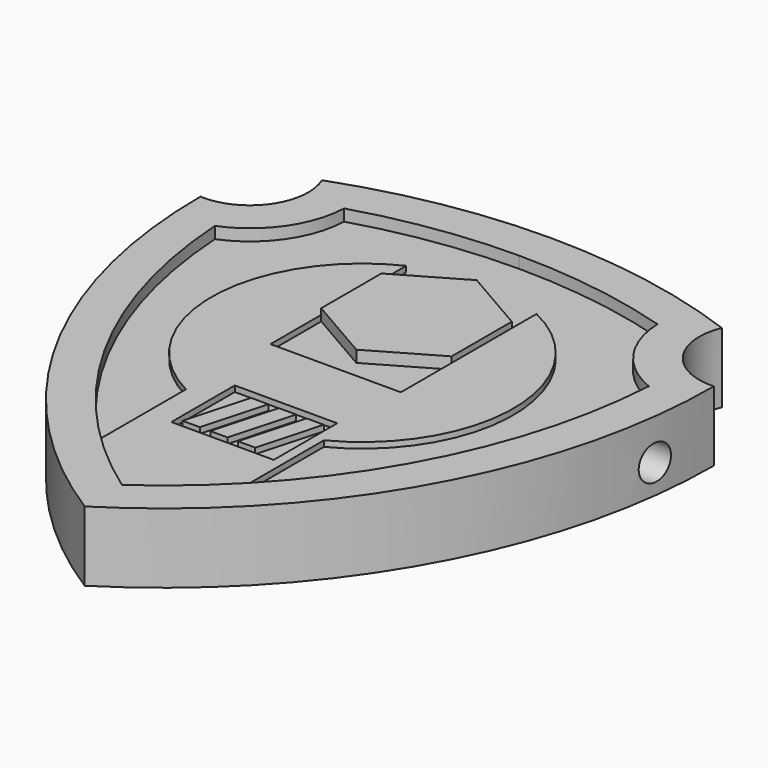
from build123d import *

# Parameters (mm, degrees)
F3_DEPTH       = 6
F4_DEPTH       = 5
F7_W           = 8.8009524625
F7_H           = 6.8124858662
F8_DEPTH       = 5.5
F9_DEPTH       = 6
F10_R          = 1.5
F11_DEPTH      = 22.0605344206
F11_DEPTH_BACK = 22.0605344206


with BuildPart() as f3:
    # F2 (on Top) → F3 (new body)
    with BuildSketch(Plane.XY):
        with BuildLine():
            Line((0, 21.6666666667), (0, 25))
            ThreePointArc((0, 25), (-8.7261968456, 24.2326465733), (-17.1845506091, 21.9541395445))
            ThreePointArc((-17.1845506091, 21.9541395445), (-17.6945480382, 17.1258595599), (-22.0595344206, 15))
            ThreePointArc((-22.0595344206, 15), (-16.1790775021, -7.8397846906), (0, -25))
            Line((0, -25), (0, -20.9973518952))
            ThreePointArc((0, -20.9973518952), (-13.1176654632, -6.4864713134), (-18.6418781092, 12.2784394807))
            ThreePointArc((-18.6418781092, 12.2784394807), (-14.9610674668, 15.2181844096), (-13.460154741, 19.6833527404))
            ThreePointArc((-13.460154741, 19.6833527404), (-6.8027439277, 21.1681757581), (0, 21.6666666667))
        make_face()
    extrude(amount=F3_DEPTH)

    # F2 (on Top) → F4 (join)
    with BuildSketch(Plane.XY):
        with BuildLine():
            Line((0, -20.9973518952), (0, 21.6666666667))
            ThreePointArc((0, 21.6666666667), (-6.8027439277, 21.1681757581), (-13.460154741, 19.6833527404))
            ThreePointArc((-13.460154741, 19.6833527404), (-14.9610674668, 15.2181844096), (-18.6418781092, 12.2784394807))
            ThreePointArc((-18.6418781092, 12.2784394807), (-13.1176654632, -6.4864713134), (0, -20.9973518952))
        make_face()
    extrude(amount=F4_DEPTH)

    # F5: F3 across plane


with BuildPart() as f3_1:
    add(f3.part)
    add(f3.part.mirror(Plane.YZ))

    # F7 (on Top) → F8 (join)
    with BuildSketch(Plane.XY):
        with BuildLine():
            Line((5.5992295966, 16.5245700628), (5.5992295966, 13.8685129642))
            Line((5.5992295966, 13.8685129642), (5.5992295966, 7.4030795346))
            Line((5.5992295966, 7.4030795346), (5.5992295966, 1.9538915054))
            Line((5.5992295966, 1.9538915054), (-5.5992295966, 1.9538915054))
            Line((-5.5992295966, 1.9538915054), (-5.5992295966, 7.4030795346))
            Line((-5.5992295966, 7.4030795346), (-5.5992295966, 13.8685129642))
            Line((-5.5992295966, 13.8685129642), (-5.5992295966, 16.5245700628))
            ThreePointArc((-5.5992295966, 16.5245700628), (-12.9710057836, 5.0063042214), (-5.9278514236, -6.7157906769))
            Line((-5.9278514236, -6.7157906769), (-5.9278514236, -19.3214993029))
            Line((-5.9278514236, -19.3214993029), (0, -23.4193839133))
            Line((0, -23.4193839133), (5.9278514236, -20.1235420135))
            Line((5.9278514236, -20.1235420135), (5.9278514236, -6.7157906769))
            ThreePointArc((5.9278514236, -6.7157906769), (12.9710057836, 5.0063042214), (5.5992295966, 16.5245700628))
        make_face()
        with Locations((0.6785687292, -7.6357298531)):
            Rectangle(F7_W, F7_H, mode=Mode.SUBTRACT)
        Polygon((-1.7386174295, -4.9604633823), (-3.247810062, -10.4308445007), (-1.7631669762, -10.4308445007), (-0.2539743437, -4.9604633823), align=None)
        Polygon((0.6177854048, -10.4308445007), (2.1269780373, -4.9604633823), (0.6423349514, -4.9604633823), (-0.8668576811, -10.4308445007), align=None)
        Polygon((2.9987377857, -10.4308445007), (4.5079304183, -4.9604633823), (3.0232873324, -4.9604633823), (1.5140946999, -10.4308445007), align=None)
    extrude(amount=F8_DEPTH)

    # F7 (on Top) → F9 (join)
    with BuildSketch(Plane.XY):
        Polygon((5.5992295966, 7.4030795346), (5.5992295966, 13.8685129642), (0, 17.1012296791), (-5.5992295966, 13.8685129642), (-5.5992295966, 7.4030795346), (0, 4.1703628198), align=None)
    extrude(amount=F9_DEPTH)

    # F10 (on Right) → F11 (cut, two sides)
    with BuildSketch(Plane.YZ) as f11_sk:
        with Locations((9.1423522681, 2.5)):
            Circle(F10_R)
    extrude(amount=-F11_DEPTH, mode=Mode.SUBTRACT)
    extrude(f11_sk.sketch, amount=F11_DEPTH_BACK, mode=Mode.SUBTRACT)


solid = f3_1.part
